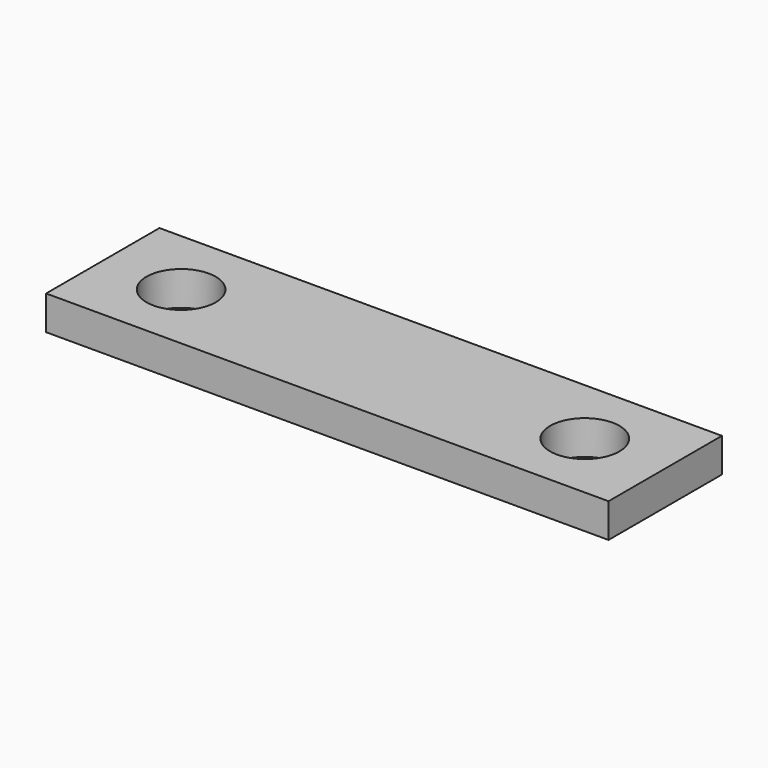
from build123d import *

# Parameters (mm, degrees)
F0_W     = 32.98
F0_H     = 8.309921
F0_R     = 2.031669
F0_R_2   = 2.032
F1_DEPTH = 2


with BuildPart() as f1:
    # F0 (on Top) → F1 (new body)
    with BuildSketch(Plane.XY):
        with Locations((11.908195, -0.013987)):
            Rectangle(F0_W, F0_H)
        Circle(F0_R, mode=Mode.SUBTRACT)
        with Locations((23.67, 0)):
            Circle(F0_R_2, mode=Mode.SUBTRACT)
    extrude(amount=F1_DEPTH)


solid = f1.part
